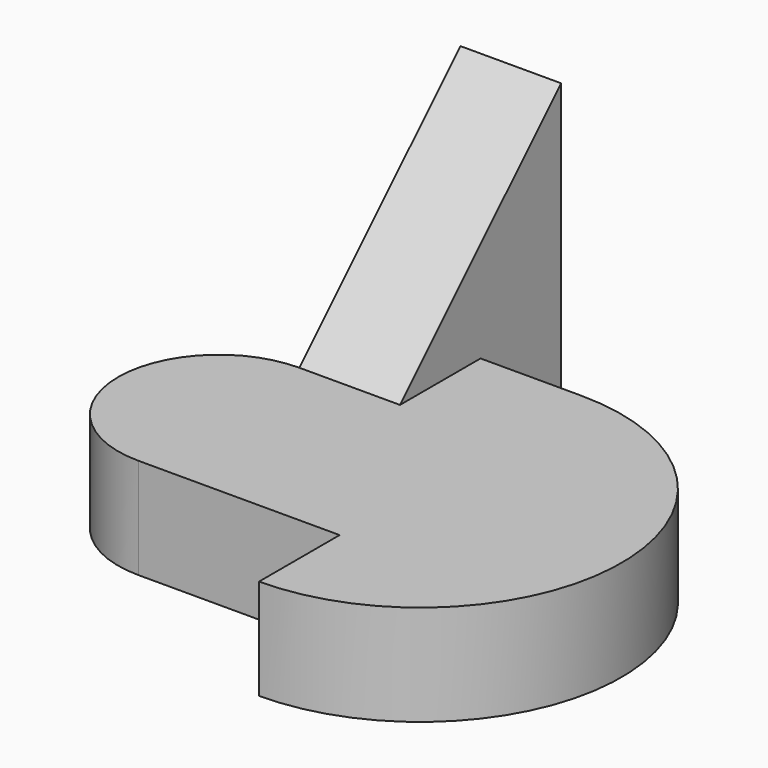
from build123d import *

# Parameters (mm, degrees)
PAD_DEPTH    = 5
SKETCH001_W  = 10
SKETCH001_H  = 20
PAD001_DEPTH = 30
POCKET_DEPTH = 20.001


with BuildPart() as part:
    # Sketch → Pad (new body, symmetric)
    with BuildSketch(Plane.XY):
        with BuildLine():
            Line((-20, 10), (-10, 10))
            Line((-10, 10), (-10, 20))
            Line((-10, 20), (0, 20))
            ThreePointArc((0, -20), (20, 0), (0, 20))
            Line((0, -20), (0, -10))
            Line((0, -10), (-20, -10))
            ThreePointArc((-20, 10), (-30, 0), (-20, -10))
        make_face()
    extrude(amount=PAD_DEPTH, both=True)

    # Sketch001 (on Face8 of Pad) → Pad001 (join)
    with BuildSketch(Plane(origin=(0, 0, -5), x_dir=(1, 0, 0), z_dir=(0, 0, -1))):
        with Locations((-15, -20)):
            Rectangle(SKETCH001_W, SKETCH001_H)
    extrude(amount=-PAD001_DEPTH)

    # Sketch002 (on Face2 of Pad001) → Pocket (cut, through all)
    with BuildSketch(Plane.YZ.offset(-10)):
        Polygon((10, 5), (10, 25), (30, 25), align=None)
    extrude(amount=-POCKET_DEPTH, mode=Mode.SUBTRACT)


solid = part.part
